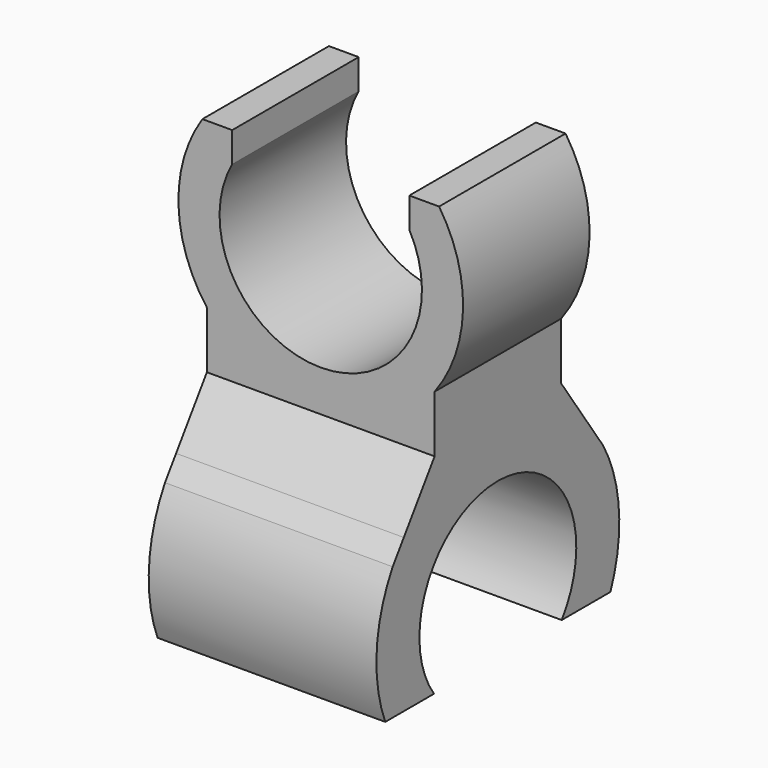
from build123d import *

# Parameters (mm, degrees)
F1_DEPTH = 12.5
F3_DEPTH = 18


with BuildPart() as f1:
    # F0 (on Front) → F1 (new body, symmetric)
    with BuildSketch(Plane.XZ):
        with BuildLine():
            ThreePointArc((0, 0), (-10.062306, 2.375388), (-18, 9))
            Line((-18, 9), (-18, 0))
            Line((-18, 0), (0, 0))
        make_face()
        with BuildLine():
            ThreePointArc((14, 30.245967), (0, 6.5), (-14, 30.245967))
            Line((-14, 30.245967), (-14, 35))
            Line((-14, 35), (-18.708287, 35))
            ThreePointArc((-18.708287, 35), (-22.491656, 21.887287), (-18, 9))
            ThreePointArc((-18, 9), (-10.062306, 2.375388), (0, 0))
            ThreePointArc((0, 0), (10.062306, 2.375388), (18, 9))
            ThreePointArc((18, 9), (22.491656, 21.887287), (18.708287, 35))
            Line((18.708287, 35), (14, 35))
            Line((14, 35), (14, 30.245967))
        make_face()
        with BuildLine():
            Line((18, 0), (18, 9))
            ThreePointArc((18, 9), (10.062306, 2.375388), (0, 0))
            Line((0, 0), (18, 0))
        make_face()
    extrude(amount=F1_DEPTH, both=True)

    # F2 (on Right) → F3 (join, symmetric)
    with BuildSketch(Plane.YZ):
        with BuildLine():
            Line((-22.248595, -33), (-12.619429, -33))
            ThreePointArc((-12.619429, -33), (0, -8.5), (12.619429, -33))
            Line((12.619429, -33), (22.248595, -33))
            ThreePointArc((22.248595, -33), (23.941892, -22.330924), (20.78461, -12))
            Line((20.78461, -12), (18.587764, -8.817937))
            ThreePointArc((18.587764, -8.817937), (10.286654, -2.316256), (0, 0))
            ThreePointArc((0, 0), (-10.286654, -2.316256), (-18.587764, -8.817937))
            Line((-18.587764, -8.817937), (-20.78461, -12))
            ThreePointArc((-20.78461, -12), (-23.941892, -22.330924), (-22.248595, -33))
        make_face()
        with BuildLine():
            Line((-12.5, 0), (-18.587764, -8.817937))
            ThreePointArc((-18.587764, -8.817937), (-10.286654, -2.316256), (0, 0))
            Line((0, 0), (-12.5, 0))
        make_face()
        with BuildLine():
            Line((12.5, 0), (0, 0))
            ThreePointArc((0, 0), (10.286654, -2.316256), (18.587764, -8.817937))
            Line((18.587764, -8.817937), (12.5, 0))
        make_face()
    extrude(amount=F3_DEPTH, both=True)


solid = f1.part
